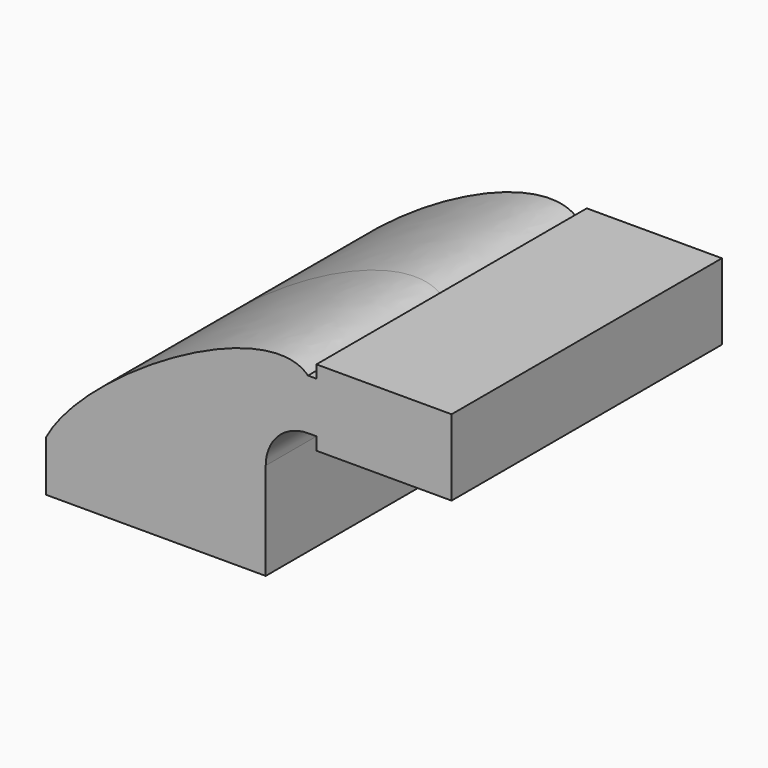
from build123d import *

# Parameters (mm, degrees)
F0_W     = 25.6359660447
F0_H     = 19.05
F0_H_2   = 4.7498
F0_H_3   = 4.7752
F1_DEPTH = 63.5


with BuildPart() as f1:
    # F0 (on Front) → F1 (new body, symmetric)
    with BuildSketch(Plane.XZ):
        Polygon((-41.275, 9.525), (-41.275, -9.525), (41.275, -9.525), (41.275, 9.525), (22.225, 9.525), align=None)
        with BuildLine():
            add(Edge.make_bspline(
                [(-41.275, 9.525), (-26.9453041255, 36.872215569), (41.3909554482, 77.7072981), (57.15, 61.9252)],
                knots=[0, 0, 0, 0, 111.5045361635, 111.5045361635, 111.5045361635, 111.5045361635], degree=3))
            Line((-41.275, 9.525), (22.225, 9.525))
            Line((22.225, 9.525), (22.225, 27.0002))
            ThreePointArc((22.225, 27.0002), (32.4542956671, 51.6959043329), (57.15, 61.9252))
        make_face()
        with BuildLine():
            Line((22.225, 9.525), (41.275, 9.525))
            Line((41.275, 9.525), (41.275, 27.0002))
            ThreePointArc((41.275, 27.0002), (45.9246798487, 38.2255201513), (57.15, 42.8752))
            Line((57.15, 42.8752), (60.325, 42.8752))
            Line((60.325, 42.8752), (60.325, 61.9252))
            Line((60.325, 61.9252), (57.15, 61.9252))
            ThreePointArc((57.15, 61.9252), (32.4542956671, 51.6959043329), (22.225, 27.0002))
            Line((22.225, 27.0002), (22.225, 9.525))
        make_face()
        with Locations((73.1429830223, 52.4002)):
            Rectangle(F0_W, F0_H)
        with Locations((73.1429830223, 64.3001)):
            Rectangle(F0_W, F0_H_2)
        with Locations((73.1429830223, 40.4876)):
            Rectangle(F0_W, F0_H_3)
        Polygon((85.9609660447, 66.675), (85.9609660447, 61.9252), (85.9609660447, 42.8752), (85.9609660447, 38.1), (111.125, 38.1), (111.125, 66.675), align=None)
    extrude(amount=F1_DEPTH, both=True)


solid = f1.part
